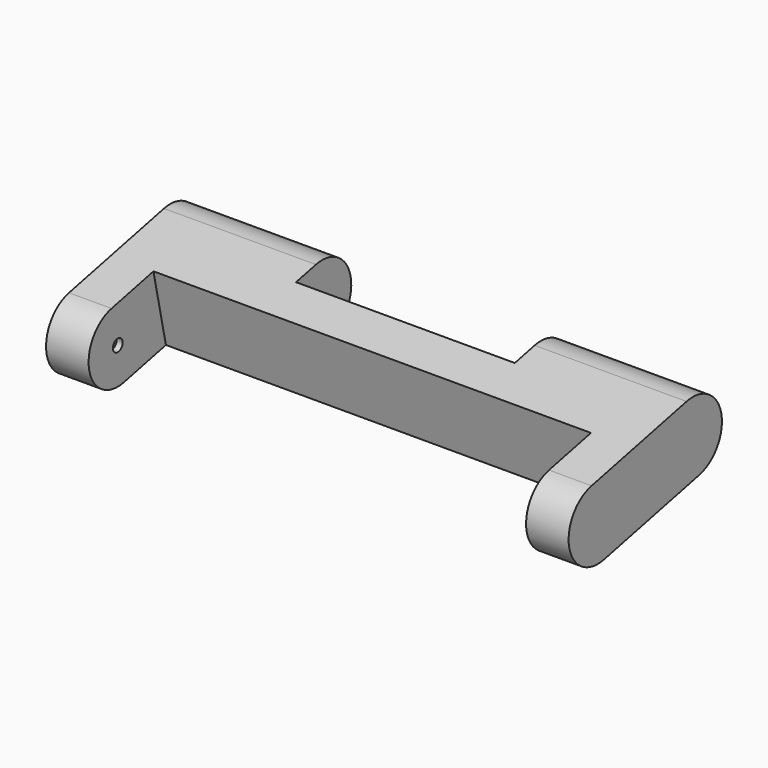
from build123d import *

# Parameters (mm, degrees)
PAD002_DEPTH          = 10.75
SKETCH034_W           = 20.5
SKETCH034_H           = 9
SKETCH034_W_2         = 10
SKETCH034_H_2         = 18
POCKET004_DEPTH       = 5
SKETCH035_R           = 0.25
POCKET005_DEPTH       = 9.25
CLONE_PLACEMENT_ANGLE = 180


with BuildPart() as part:
    # Sketch033 → Pad002 (new body, symmetric)
    with BuildSketch(Plane.YZ):
        with BuildLine():
            Line((21.8202830187, 8.7154073795), (26.7049742837, 7.6477973171))
            ThreePointArc((26.0644082463, 4.7169825581), (27.8500986445, 5.8621069189), (26.7049742837, 7.6477973171))
            Line((26.0644082463, 4.7169825581), (21.1797169813, 5.7845926205))
            ThreePointArc((21.8202830187, 8.7154073795), (20.0345926205, 7.5702830187), (21.1797169813, 5.7845926205))
        make_face()
    extrude(amount=PAD002_DEPTH, both=True)

    # Sketch034 (on Face3 of Pad002) → Pocket004 (cut)
    with BuildSketch(Plane(origin=(0, 2.812837698, 12.869721088), x_dir=(0, -0.976938253, 0.2135220125), z_dir=(0, 0.2135220125, 0.976938253))):
        with Locations((-10.25, 0)):
            Rectangle(SKETCH034_W, SKETCH034_H)
        with Locations((-27.25, 0)):
            Rectangle(SKETCH034_W_2, SKETCH034_H_2)
    extrude(amount=-POCKET004_DEPTH, mode=Mode.SUBTRACT)

    # Sketch035 → Pocket005 (cut, symmetric)
    with BuildSketch(Plane.YZ):
        with Locations((26.384691265, 6.1823899376)):
            Circle(SKETCH035_R)
    extrude(amount=POCKET005_DEPTH, both=True, mode=Mode.SUBTRACT)


with BuildPart() as part_1:
    # Clone placement: moved
    add(part.part.rotate(Axis((0, 0, 0), (0, 0, 1)), CLONE_PLACEMENT_ANGLE))


solid = part_1.part
